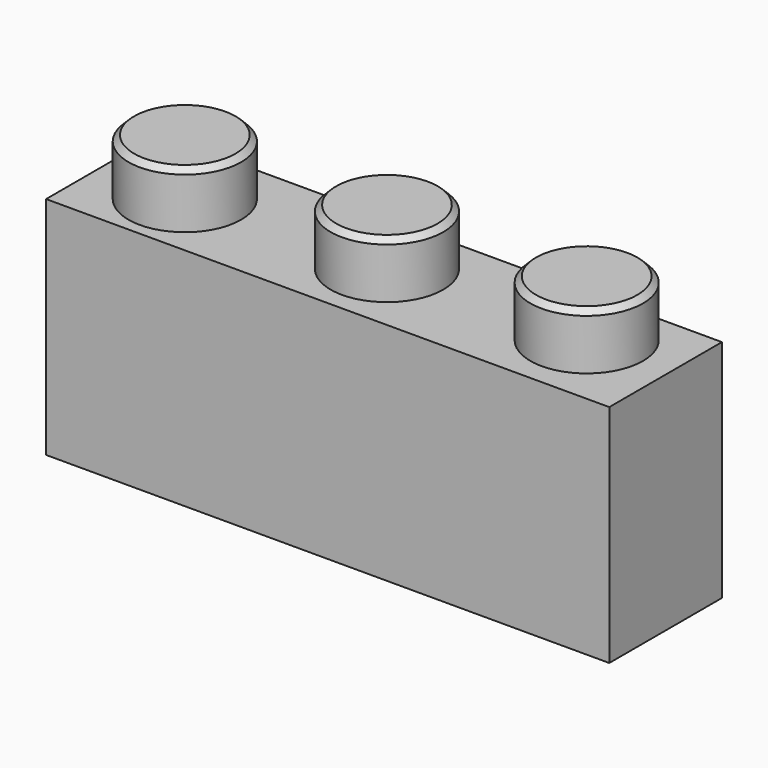
from build123d import *

# Parameters (mm, degrees)
F0_W     = 20
F0_H     = 5
F1_DEPTH = 8
F2_R     = 2
F3_DEPTH = 2
F4_SIZE  = 0.2


with BuildPart() as f1:
    # F0 (on Top) → F1 (new body)
    with BuildSketch(Plane.XY):
        with Locations((-10, 2.5)):
            Rectangle(F0_W, F0_H)
    extrude(amount=F1_DEPTH)

    # F2 (on face) → F3 (join)
    with BuildSketch(Plane.XY.offset(8)):
        with Locations((-17, 2.409057)):
            Circle(F2_R)
        with Locations((-10, 2.63126)):
            Circle(F2_R)
        with Locations((-3, 2.747634)):
            Circle(F2_R)
    extrude(amount=F3_DEPTH)

    # F4
    f4_edges = [f1.edges().sort_by_distance(p)[0] for p in [
        (-19, 2.409057, 10),
        (-12, 2.63126, 10),
        (-5, 2.747634, 10),
    ]]
    chamfer(f4_edges, length=F4_SIZE)


solid = f1.part
